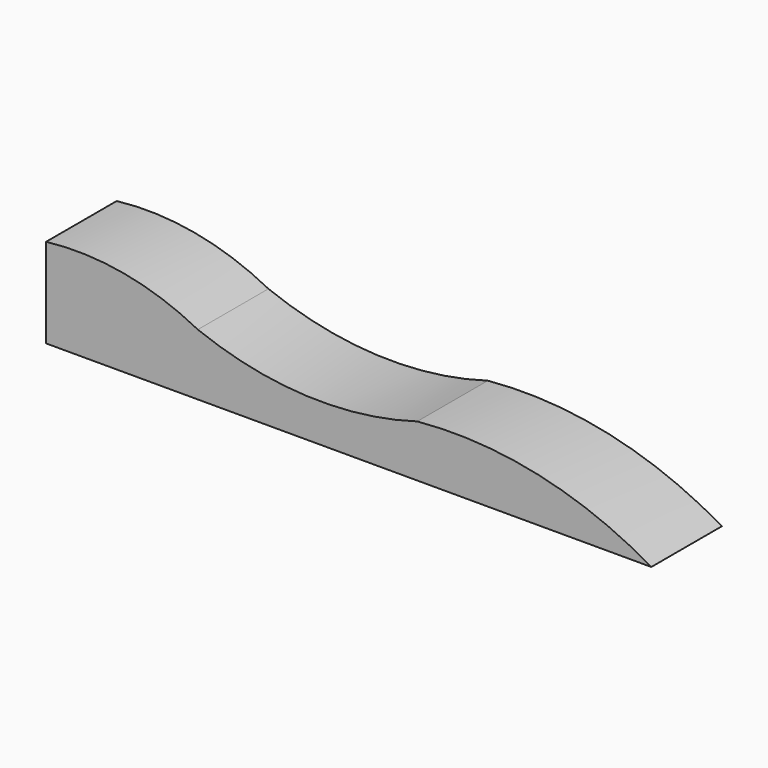
from build123d import *

# Parameters (mm, degrees)
F1_DEPTH = 44.45
F3_DEPTH = 50.8


with BuildPart() as f1:
    # F0 (on Front) → F1 (new body)
    with BuildSketch(Plane.XZ):
        Polygon((0, 69.85), (0, 0), (304.8, 0), (304.8, 19.05), align=None)
    extrude(amount=-F1_DEPTH)

    # F2 (on face) → F3 (cut)
    with BuildSketch(Plane.XZ):
        with BuildLine():
            ThreePointArc((0, 45.065515), (39.269991, 43.781798), (76.421015, 30.991899))
            ThreePointArc((76.421015, 30.991899), (131.267893, 19.381868), (186.913863, 26.200881))
            ThreePointArc((186.913863, 26.200881), (247.918131, 22.374434), (304.8, 0))
            Line((304.8, 0), (304.8, 19.05))
            Line((304.8, 19.05), (0, 69.85))
            Line((0, 69.85), (0, 45.065515))
        make_face()
    extrude(amount=-F3_DEPTH, mode=Mode.SUBTRACT)


solid = f1.part
